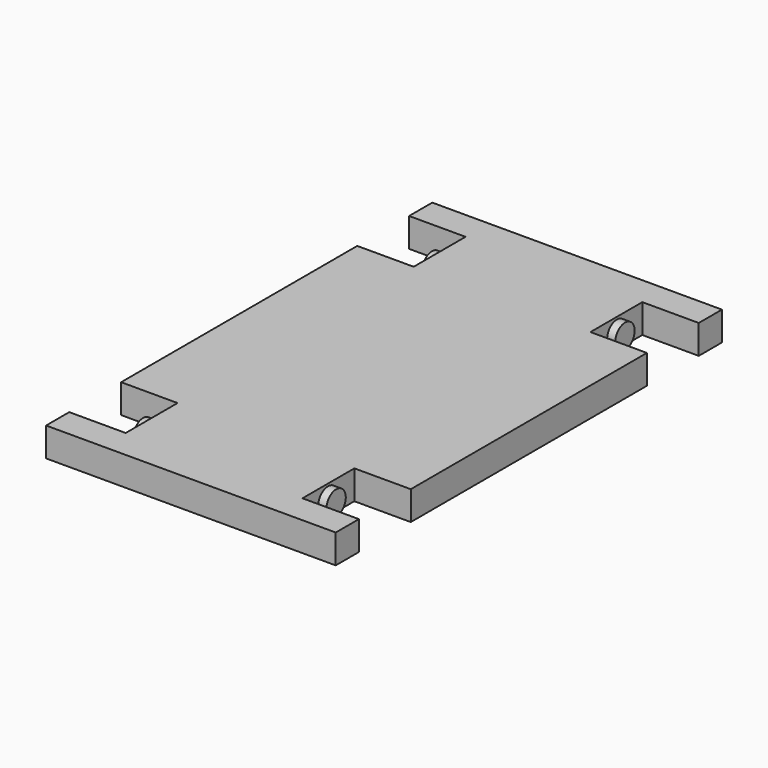
from build123d import *

# Parameters (mm, degrees)
F1_DEPTH = 3.81
F2_R     = 3.178852
F3_DEPTH = 25.4


with BuildPart() as f1:
    # F0 (on Top) → F1 (new body, symmetric)
    with BuildSketch(Plane.XY):
        Polygon((38.1, 63.5), (30.48, 63.5), (-30.48, 63.5), (-38.1, 63.5), (-38.1, 55.88), (-23.254137, 55.88), (-23.254137, 38.822588), (-38.1, 38.822588), (-38.1, -38.822588), (-23.254137, -38.822588), (-23.254137, -55.88), (-38.1, -55.88), (-38.1, -63.5), (38.1, -63.5), (38.1, -55.88), (23.254137, -55.88), (23.254137, -38.822588), (38.1, -38.822588), (38.1, 38.822588), (23.254137, 38.822588), (23.254137, 55.88), (38.1, 55.88), align=None)
    extrude(amount=F1_DEPTH, both=True)

    # F2 (on Right) → F3 (join, symmetric)
    with BuildSketch(Plane.YZ):
        with Locations((-47.493622, 0)):
            Circle(F2_R)
        with Locations((47.493622, 0)):
            Circle(F2_R)
    extrude(amount=F3_DEPTH, both=True)


solid = f1.part
